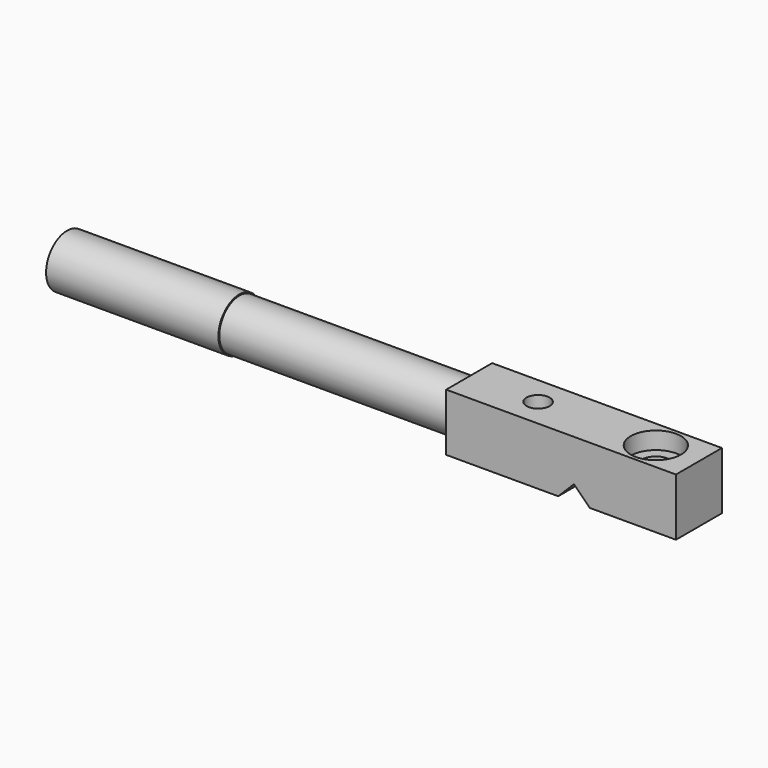
from build123d import *

# Parameters (mm, degrees)
F1_DEPTH = 6.35
F2_R     = 2.5527
F5_DEPTH = 12.701
F8_W     = 8.89
F8_H     = 3.175
F10_W    = 38.1
F10_H    = 0.254


with BuildPart() as f1:
    # F0 (on Front) → F1 (new body, symmetric)
    with BuildSketch(Plane.XZ):
        Polygon((-28.25492, 3.49508), (-3.49508, 3.49508), (0, 6.990161), (3.49508, 3.49508), (22.54508, 3.49508), (22.54508, 16.19508), (-28.25492, 16.19508), align=None)
    extrude(amount=F1_DEPTH, both=True)

    # F3 (on Front) → F4 (revolve, cut)
    with BuildSketch(Plane.XZ):
        Polygon((18.57633, 16.19508), (13.02008, 16.19508), (13.02008, 3.49508), (16.19508, 3.49508), (16.19508, 12.38508), (18.57633, 12.38508), align=None)
    revolve(axis=Axis((13.02008, 0, 9.84508), (0, 0, -1)), mode=Mode.SUBTRACT)

    # F2 (on face) → F5 (cut, through all)
    with BuildSketch(Plane.XY.offset(16.19508)):
        with Locations((-13.02008, 0)):
            Circle(F2_R)
    extrude(amount=-F5_DEPTH, mode=Mode.SUBTRACT)

    # F6 (on Front) → F7 (revolve, cut)
    with BuildSketch(Plane.XZ):
        Polygon((-15.55492, 12.39778), (-24.44492, 12.39778), (-24.44492, 15.40133), (-28.25492, 15.40133), (-28.25492, 9.84508), (-14.021103, 9.84508), align=None)
    revolve(axis=Axis((-21.138011, 0, 9.84508), (-1, 0, 0)), mode=Mode.SUBTRACT)


with BuildPart() as f9:
    # F8 (on Front) → F9 (revolve)
    with BuildSketch(Plane.XZ):
        with Locations((-19.99992, 11.43258)):
            Rectangle(F8_W, F8_H)
        Polygon((-117.15492, 9.84508), (-24.44492, 9.84508), (-24.44492, 13.02008), (-24.44492, 15.40133), (-117.15492, 15.40133), align=None)
    revolve(axis=Axis((-66.35492, 0, 9.84508), (1, 0, 0)))

    # F10 (on Front) → F11 (revolve)
    with BuildSketch(Plane.XZ):
        with Locations((-98.10492, 15.52833)):
            Rectangle(F10_W, F10_H)
    revolve(axis=Axis((-72.70492, 0, 9.84508), (1, 0, 0)))


solid = Compound([f1.part, f9.part])
